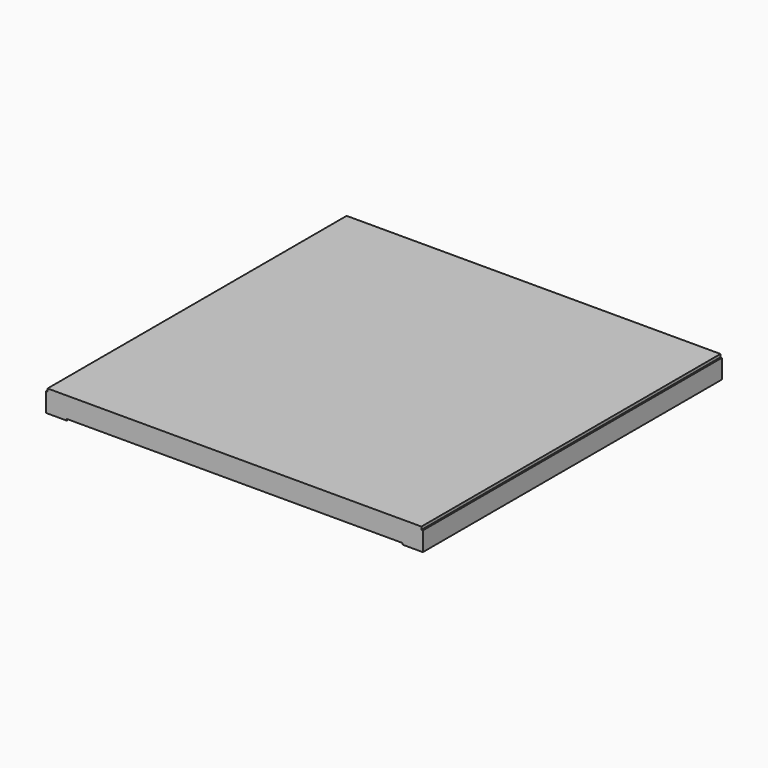
from build123d import *

# Parameters (mm, degrees)
F0_W     = 806.45
F0_H     = 44.45
F1_DEPTH = 806.45
F3_DEPTH = 806.45


with BuildPart() as f1:
    # F0 (on Front) → F1 (new body)
    with BuildSketch(Plane.XZ):
        with Locations((403.225, 22.225)):
            Rectangle(F0_W, F0_H)
    extrude(amount=-F1_DEPTH)

    # F2 (on Front) → F3 (join)
    with BuildSketch(Plane.XZ):
        Polygon((-3.175, -3.175), (0, -3.175), (41.275, -3.175), (41.275, 0), (0, 0), (0, 38.1), (-3.175, 38.1), align=None)
        Polygon((765.175, -3.175), (806.45, -3.175), (809.625, -3.175), (809.625, 38.1), (806.45, 38.1), (806.45, 0), (765.175, 0), align=None)
    extrude(amount=-F3_DEPTH)


solid = f1.part
